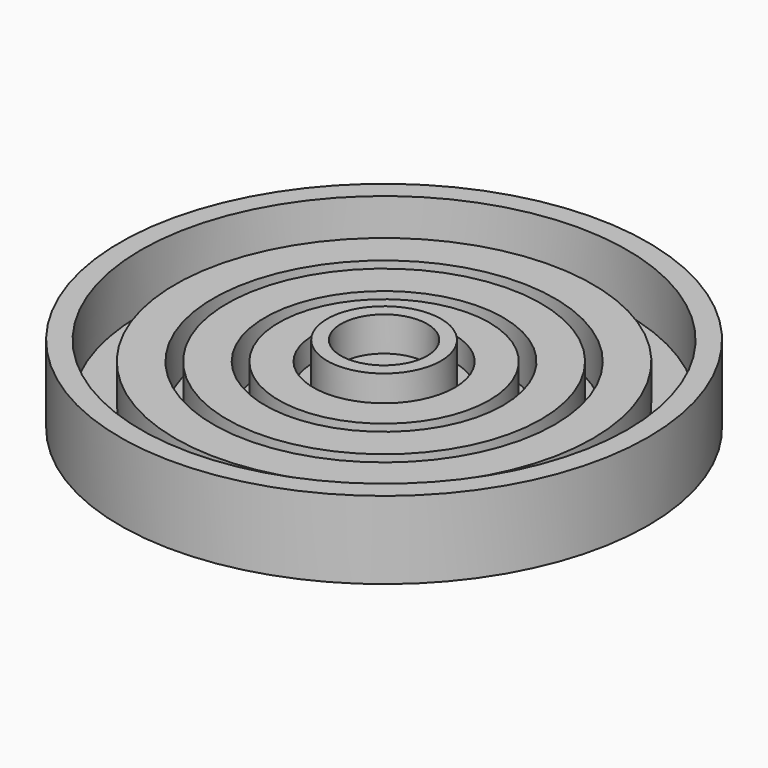
from build123d import *

# Parameters (mm, degrees)
F0_W   = 6.25
F0_H   = 2
F0_W_2 = 2
F0_H_2 = 0.75
F0_H_3 = 1.5
F0_W_3 = 5
F0_H_4 = 3


with BuildPart() as f2:
    # F0 (on Front) → F2 (revolve)
    with BuildSketch(Plane.XZ):
        with Locations((3.125, 1)):
            Rectangle(F0_W, F0_H)
        with Locations((3.125, -1)):
            Rectangle(F0_W, F0_H)
        Polygon((8.25, 0), (6.25, 0), (6.25, -2), (6.25, -7), (8.25, -7), (8.25, -0.75), align=None)
        Polygon((6.25, 2), (6.25, 0), (8.25, 0), (8.25, 0.75), (8.25, 7), (6.25, 7), align=None)
        with Locations((9.25, -0.375)):
            Rectangle(F0_W_2, F0_H_2)
        with Locations((9.25, 0.375)):
            Rectangle(F0_W_2, F0_H_2)
        Polygon((10.25, 0.75), (10.25, 0), (10.25, -0.75), (11.75, -0.75), (11.75, 2.75), (11.75, 4.25), (10.25, 4.25), align=None)
        with Locations((12.75, 3.5)):
            Rectangle(F0_W_2, F0_H_3)
        Polygon((15.25, 4.25), (13.75, 4.25), (13.75, 2.75), (13.75, -4.25), (15.25, -4.25), (15.25, -2.75), align=None)
        with Locations((16.25, -3.5)):
            Rectangle(F0_W_2, F0_H_3)
        Polygon((17.25, 4.25), (17.25, -2.75), (17.25, -4.25), (19.25, -4.25), (19.25, 2.75), (19.25, 4.25), align=None)
        with Locations((20.25, 3.5)):
            Rectangle(F0_W_2, F0_H_3)
        Polygon((22.75, 4.25), (21.25, 4.25), (21.25, 2.75), (21.25, -4.25), (22.75, -4.25), (22.75, -2.75), align=None)
        with Locations((23.75, -3.5)):
            Rectangle(F0_W_2, F0_H_3)
        Polygon((24.75, 4.25), (24.75, -2.75), (24.75, -4.25), (26.25, -4.25), (26.25, 2.75), (26.25, 4.25), align=None)
        with Locations((27.25, 3.5)):
            Rectangle(F0_W_2, F0_H_3)
        Polygon((30.25, 4.25), (28.25, 4.25), (28.25, 2.75), (28.25, -4.25), (30.25, -4.25), (30.25, -1.25), align=None)
        with Locations((32.75, -2.75)):
            Rectangle(F0_W_3, F0_H_4)
        Polygon((35.25, 7), (35.25, -1.25), (35.25, -4.25), (38.25, -4.25), (38.25, 7), align=None)
    revolve(axis=Axis((0, 0, -2.002694), (0, 0, -1)))


solid = f2.part
